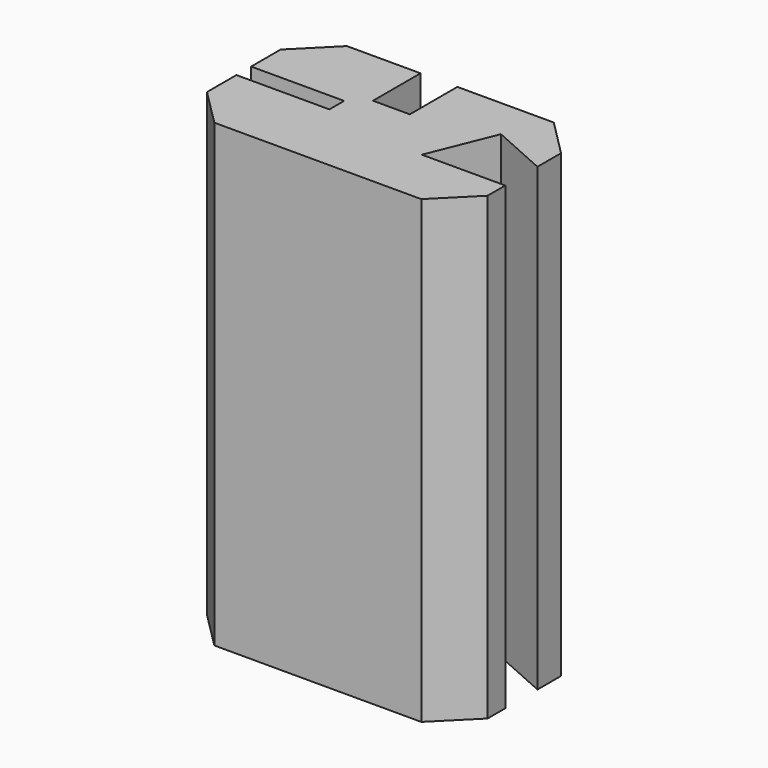
from build123d import *

# Parameters (mm, degrees)
F1_DEPTH = 25


with BuildPart() as f1:
    # F0 (on Top) → F1 (new body)
    with BuildSketch(Plane.XY):
        Polygon((-17.259561, -43.798914), (-15.258448, -45.800026), (-4.018448, -45.800026), (-2.017336, -43.798914), (-2.017336, -42.598914), (-6.547336, -42.598914), (-5.105101, -39.029256), (-2.026453, -40.399959), (-2.026453, -38.799959), (-4.022482, -36.793776), (-9.262482, -36.793776), (-9.262482, -40.023776), (-11.262482, -40.023776), (-11.262482, -36.793776), (-15.262482, -36.793776), (-17.259561, -38.798914), (-17.259561, -40.798914), (-12.209561, -40.798914), (-12.209561, -41.798914), (-17.259561, -41.798914), align=None)
    extrude(amount=F1_DEPTH)


solid = f1.part
